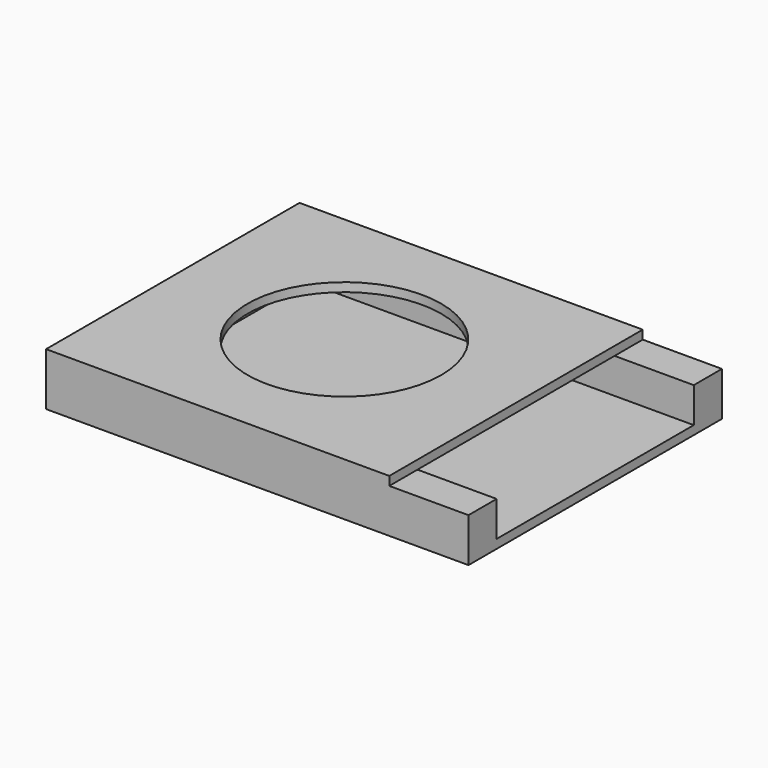
from build123d import *

# Parameters (mm, degrees)
F0_W     = 152.4
F0_H     = 114.3
F1_DEPTH = 3.175
F2_W     = 152.4
F2_H     = 12.7
F3_DEPTH = 12.7
F4_W     = 12.7
F4_H     = 88.9
F5_DEPTH = 12.7
F6_W     = 123.825
F6_H     = 114.3
F7_DEPTH = 3.175
F8_R     = 34.925
F9_DEPTH = 3.175


with BuildPart() as f1:
    # F0 (on Top) → F1 (new body)
    with BuildSketch(Plane.XY):
        Rectangle(F0_W, F0_H)
    extrude(amount=F1_DEPTH)

    # F2 (on face) → F3 (join)
    with BuildSketch(Plane.XY.offset(3.175)):
        with Locations((0, -50.8)):
            Rectangle(F2_W, F2_H)
        with Locations((0, 50.8)):
            Rectangle(F2_W, F2_H)
    extrude(amount=F3_DEPTH)

    # F4 (on face) → F5 (join)
    with BuildSketch(Plane.XY.offset(3.175)):
        with Locations((-69.85, 0)):
            Rectangle(F4_W, F4_H)
    extrude(amount=F5_DEPTH)

    # F6 (on face) → F7 (join)
    with BuildSketch(Plane.XY.offset(15.875)):
        with Locations((-14.2875, 0)):
            Rectangle(F6_W, F6_H)
    extrude(amount=F7_DEPTH)

    # F8 (on face) → F9 (cut)
    with BuildSketch(Plane.XY.offset(19.05)):
        with Locations((-14.2875, 0)):
            Circle(F8_R)
    extrude(amount=-F9_DEPTH, mode=Mode.SUBTRACT)


solid = f1.part
